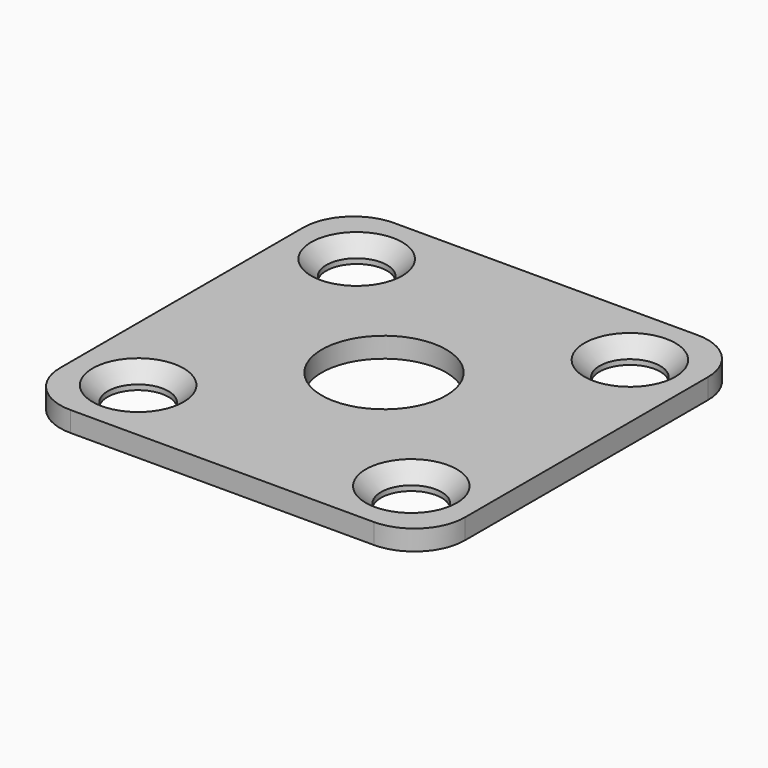
from build123d import *

# Parameters (mm, degrees)
F0_W     = 40
F0_H     = 40
F0_R     = 3
F0_R_2   = 11.2
F0_R_3   = 6.15
F1_DEPTH = 2
F2_R     = 5
F3_SIZE  = 1.5


with BuildPart() as f1:
    # F0 (on Top) → F1 (new body)
    with BuildSketch(Plane.XY):
        Rectangle(F0_W, F0_H)
        with Locations((-13.5, -13.5)):
            Circle(F0_R, mode=Mode.SUBTRACT)
        with Locations((13.5, -13.5)):
            Circle(F0_R, mode=Mode.SUBTRACT)
        with Locations((-13.5, 13.5)):
            Circle(F0_R, mode=Mode.SUBTRACT)
        Circle(F0_R_2, mode=Mode.SUBTRACT)
        with Locations((13.5, 13.5)):
            Circle(F0_R, mode=Mode.SUBTRACT)
        Circle(F0_R_2)
        Circle(F0_R_3, mode=Mode.SUBTRACT)
    extrude(amount=F1_DEPTH)

    # F2
    f2_edges = [f1.edges().sort_by_distance(p)[0] for p in [
        (-20, -20, 1),
        (20, -20, 1),
        (20, 20, 1),
        (-20, 20, 1),
    ]]
    fillet(f2_edges, radius=F2_R)

    # F3
    f3_edges = [f1.edges().sort_by_distance(p)[0] for p in [
        (-16.5, 13.5, 2),
        (-16.5, -13.5, 2),
        (10.5, 13.5, 2),
        (10.5, -13.5, 2),
    ]]
    chamfer(f3_edges, length=F3_SIZE)


solid = f1.part
